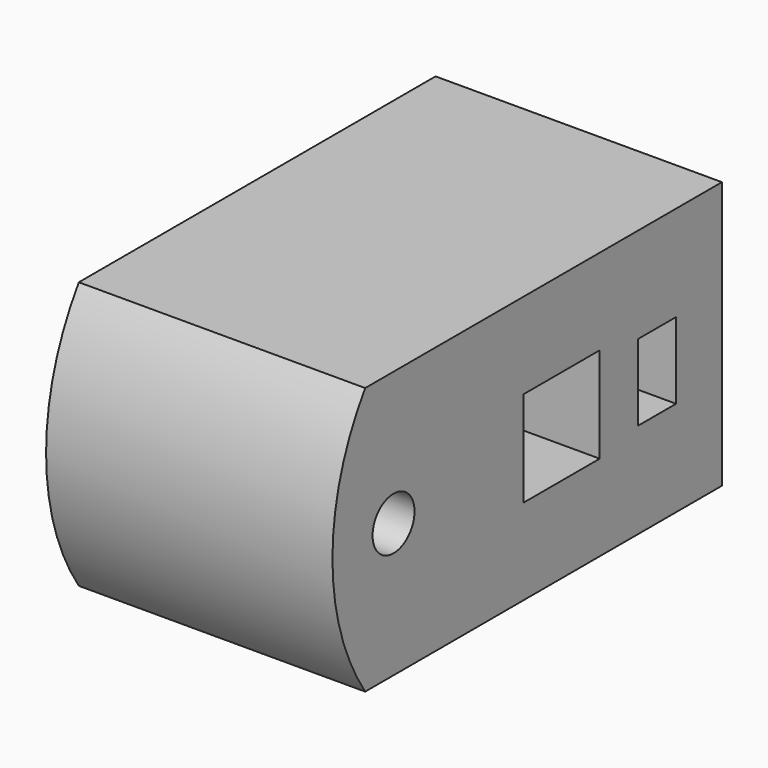
from build123d import *

# Parameters (mm, degrees)
F0_R     = 2.75
F0_W     = 10
F0_H     = 10
F0_W_2   = 5
F0_H_2   = 8
F1_DEPTH = 15


with BuildPart() as f1:
    # F0 (on Right) → F1 (new body, symmetric)
    with BuildSketch(Plane.YZ):
        with BuildLine():
            ThreePointArc((-3.712315, 28), (-8, 14), (-3.712315, 0))
            Line((-3.712315, 0), (43, 0))
            Line((43, 0), (43, 28))
            Line((43, 28), (-3.712315, 28))
        make_face()
        with Locations((0, 14)):
            Circle(F0_R, mode=Mode.SUBTRACT)
        with Locations((22, 14)):
            Rectangle(F0_W, F0_H, mode=Mode.SUBTRACT)
        with Locations((34.5, 14)):
            Rectangle(F0_W_2, F0_H_2, mode=Mode.SUBTRACT)
    extrude(amount=F1_DEPTH, both=True)


solid = f1.part
